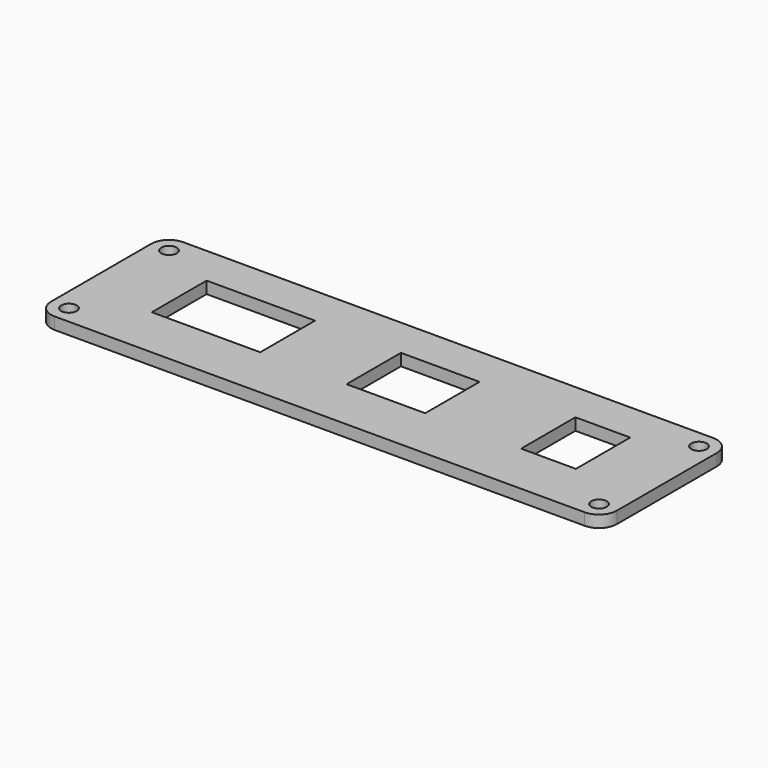
from build123d import *

# Parameters (mm, degrees)
SKETCH_W        = 95
SKETCH_H        = 27
PAD_DEPTH       = 2
SKETCH001_R     = 1.3
POCKET_DEPTH    = 2
FILLET_R        = 3
SKETCH002_W     = 9.2
SKETCH002_H     = 11.4
POCKET001_DEPTH = 2
SKETCH003_W     = 13.2
SKETCH003_H     = 11.4
SKETCH003_W_2   = 18.2
SKETCH003_H_2   = 11.5
POCKET002_DEPTH = 2


with BuildPart() as part:
    # Sketch → Pad (new body)
    with BuildSketch(Plane.XY):
        Rectangle(SKETCH_W, SKETCH_H)
    extrude(amount=PAD_DEPTH)

    # Sketch001 (on Face6 of Pad) → Pocket (cut)
    with BuildSketch(Plane.XY.offset(2)):
        with Locations((-44.5, 10.5)):
            Circle(SKETCH001_R)
        with Locations((44.5, 10.5)):
            Circle(SKETCH001_R)
        with Locations((44.5, -10.5)):
            Circle(SKETCH001_R)
        with Locations((-44.5, -10.5)):
            Circle(SKETCH001_R)
    extrude(amount=-POCKET_DEPTH, mode=Mode.SUBTRACT)

    # Fillet
    fillet_edges = [part.edges().sort_by_distance(p)[0] for p in [
        (-47.5, -13.5, 1),
        (47.5, -13.5, 1),
        (47.5, 13.5, 1),
        (-47.5, 13.5, 1),
    ]]
    fillet(fillet_edges, radius=FILLET_R)

    # Sketch002 (on Face5 of Fillet) → Pocket001 (cut)
    with BuildSketch(Plane.XY.offset(2)):
        with Locations((31.3, 1.1)):
            Rectangle(SKETCH002_W, SKETCH002_H)
    extrude(amount=-POCKET001_DEPTH, mode=Mode.SUBTRACT)

    # Sketch003 (on Face5 of Pocket001) → Pocket002 (cut)
    with BuildSketch(Plane.XY.offset(2)):
        with Locations((4, 1.1)):
            Rectangle(SKETCH003_W, SKETCH003_H)
        with Locations((-26.2, 1.15)):
            Rectangle(SKETCH003_W_2, SKETCH003_H_2)
    extrude(amount=-POCKET002_DEPTH, mode=Mode.SUBTRACT)


solid = part.part
